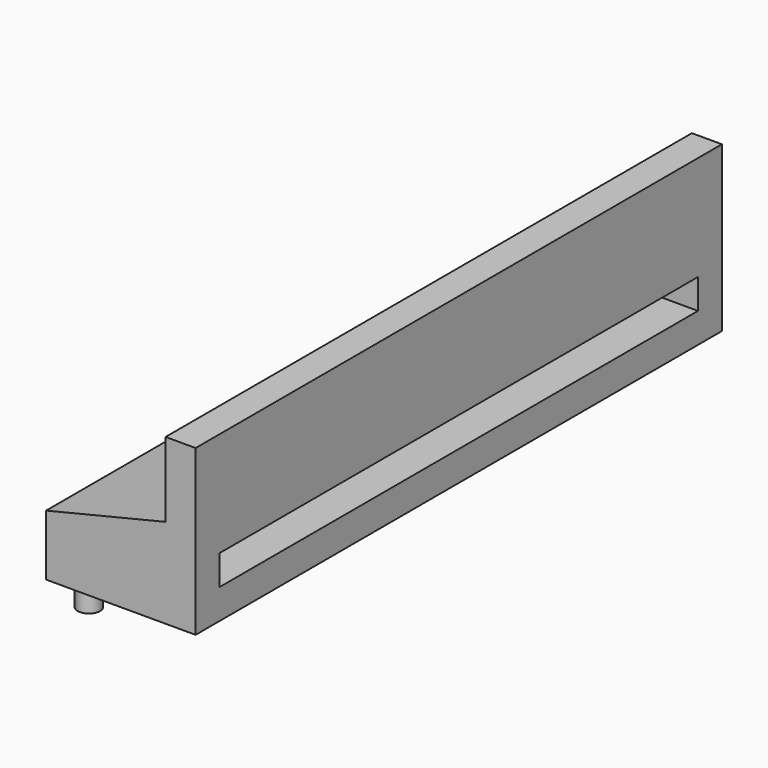
from build123d import *

# Parameters (mm, degrees)
F0_W     = 50
F0_H     = 220
F1_DEPTH = 30
F2_W     = 200.0000000022
F2_H     = 10
F3_DEPTH = 50
F5_DEPTH = 220
F6_DEPTH = 25
F7_R     = 3.75
F8_DEPTH = 10


with BuildPart() as f1:
    # F0 (on Top) → F1 (new body)
    with BuildSketch(Plane.XY):
        with Locations((-38.1634101286, 8.3829769865)):
            Rectangle(F0_W, F0_H)
    extrude(amount=F1_DEPTH)

    # F2 (on face) → F3 (cut, through all)
    with BuildSketch(Plane.YZ.offset(-13.1634101286)):
        with Locations((8.3829769876, 15)):
            Rectangle(F2_W, F2_H)
    extrude(amount=-F3_DEPTH, mode=Mode.SUBTRACT)

    # F4 (on face) → F5 (cut, through all)
    with BuildSketch(Plane.XZ.offset(101.6170230135)):
        Polygon((-63.1634101286, 30), (-63.1634101286, 20.3228145838), (-23.2081543654, 30), align=None)
    extrude(amount=-F5_DEPTH, mode=Mode.SUBTRACT)

    # F6 (add): a face of the model
    f6_faces = [f1.faces().sort_by_distance(p)[0] for p in [
        (-18.185782247, 8.3829769865, 30),
    ]]
    extrude(f6_faces, amount=F6_DEPTH)

    # F7 (on face) → F8 (join)
    with BuildSketch(Plane(origin=(0, 0, 0), x_dir=(1, 0, 0), z_dir=(0, 0, -1))):
        with Locations((-56.7856021225, -108.2918941975)):
            Circle(F7_R)
        with Locations((-56.7856021225, -83.2918941975)):
            Circle(F7_R)
        with Locations((-56.7856021225, -58.2918941975)):
            Circle(F7_R)
        with Locations((-56.7856021225, -33.2918941975)):
            Circle(F7_R)
        with Locations((-56.7856021225, -8.2918941975)):
            Circle(F7_R)
        with Locations((-56.7856021225, 16.7081058025)):
            Circle(F7_R)
        with Locations((-56.7856021225, 41.7081058025)):
            Circle(F7_R)
        with Locations((-56.7856021225, 66.7081058025)):
            Circle(F7_R)
        with Locations((-56.7856021225, 91.7081058025)):
            Circle(F7_R)
    extrude(amount=F8_DEPTH)


solid = f1.part
